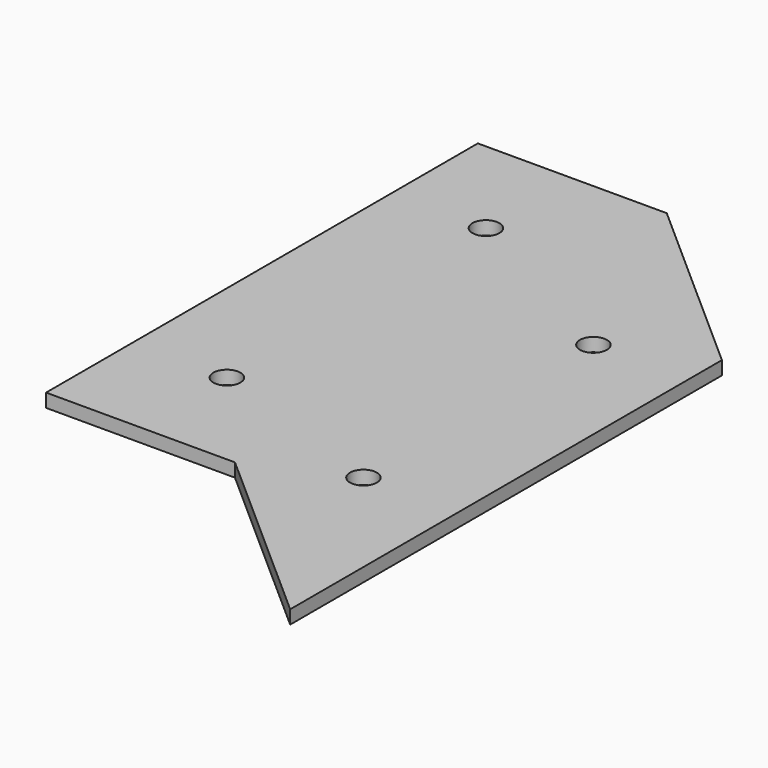
from build123d import *

# Parameters (mm, degrees)
F0_W     = 70
F0_H     = 200
F0_R     = 5
F1_DEPTH = 5


with BuildPart() as f1:
    # F0 (on Top) → F1 (new body)
    with BuildSketch(Plane.XY):
        with Locations((-48.953456, 84.23365)):
            Rectangle(F0_W, F0_H)
        with Locations((-48.953456, 24.23365)):
            Circle(F0_R, mode=Mode.SUBTRACT)
        with Locations((-48.953456, 144.23365)):
            Circle(F0_R, mode=Mode.SUBTRACT)
        Polygon((56.046544, 122.302881), (-13.953456, 184.23365), (-13.953456, -15.76635), (56.046544, -77.697119), align=None)
        with Locations((21.046544, 0)):
            Circle(F0_R, mode=Mode.SUBTRACT)
        with Locations((21.046544, 106.536531)):
            Circle(F0_R, mode=Mode.SUBTRACT)
    extrude(amount=F1_DEPTH)


solid = f1.part
